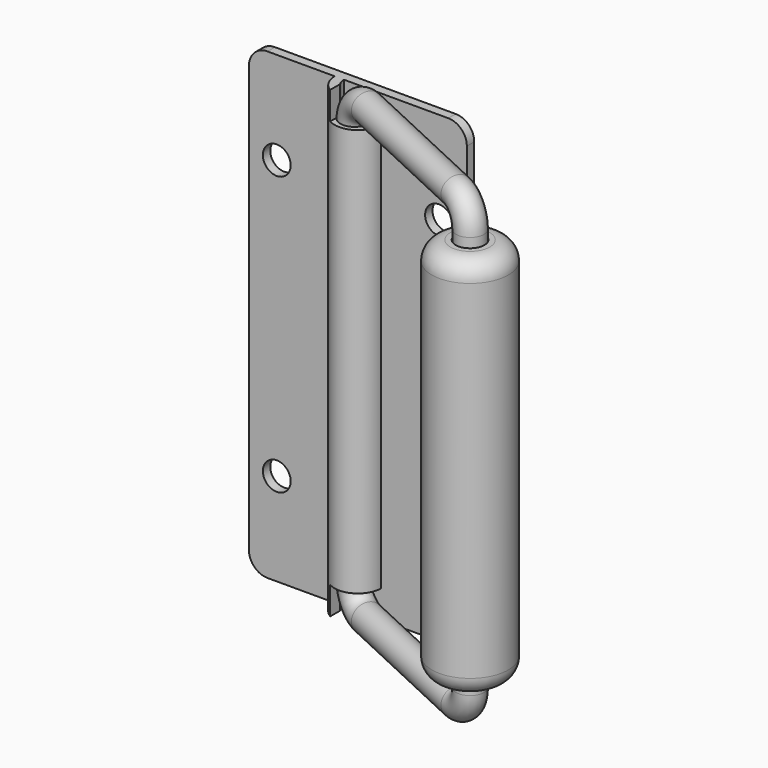
from build123d import *

# Parameters (mm, degrees)
PAD_DEPTH               = 50
SKETCH004_R             = 3
POCKET_DEPTH            = 2
SKETCH005_W             = 26
SKETCH005_H             = 6
POCKET001_DEPTH         = 5.001
FILLET001_R             = 4
BODY_PLACEMENT_ANGLE    = 180
SKETCH002_R             = 3
BODY001_PLACEMENT_ANGLE = 25
SKETCH003_R             = 8.25
SKETCH003_R_2           = 3.1
PAD001_DEPTH            = 41.5
FILLET_R                = 4
BODY002_PLACEMENT_ANGLE = 25


with BuildPart() as body:
    # Sketch → Pad (new body, symmetric)
    with BuildSketch(Plane.XY):
        with BuildLine():
            Line((-23.5, 0), (23.5, 0))
            Line((23.5, 0), (23.5, 2))
            Line((5, 2), (23.5, 2))
            ThreePointArc((5, 2), (0, 7), (-5, 2))
            Line((-5, 2), (-23.5, 2))
            Line((-23.5, 2), (-23.5, 0))
        make_face()
        with BuildLine():
            Line((-3, 2), (3, 2))
            ThreePointArc((3, 2), (0, 5), (-3, 2))
        make_face(mode=Mode.SUBTRACT)
    extrude(amount=PAD_DEPTH, both=True)

    # Sketch004 (on Face5 of Pad) → Pocket (cut)
    with BuildSketch(Plane(origin=(0, 2, 0), x_dir=(-1, 0, 0), z_dir=(0, 1, 0))):
        with Locations((17.5, 30)):
            Circle(SKETCH004_R)
        with Locations((-17.5, 30)):
            Circle(SKETCH004_R)
        with Locations((17.5, -30)):
            Circle(SKETCH004_R)
        with Locations((-17.5, -30)):
            Circle(SKETCH004_R)
    extrude(amount=-POCKET_DEPTH, mode=Mode.SUBTRACT)

    # Sketch005 (on Face10 of Pocket) → Pocket001 (cut, through all)
    with BuildSketch(Plane(origin=(0, 2, 0), x_dir=(-1, 0, 0), z_dir=(0, 1, 0))):
        with Locations((10.5, 47)):
            Rectangle(SKETCH005_W, SKETCH005_H)
        with Locations((10.5, -47)):
            Rectangle(SKETCH005_W, SKETCH005_H)
    extrude(amount=POCKET001_DEPTH, mode=Mode.SUBTRACT)

    # Fillet001
    fillet001_edges = [body.edges().sort_by_distance(p)[0] for p in [
        (-23.5, 1, -50),
        (23.5, 1, -50),
        (23.5, 1, 50),
        (-23.5, 1, 50),
    ]]
    fillet(fillet001_edges, radius=FILLET001_R)


with BuildPart() as body_1:
    # Body placement: moved
    add(body.part.rotate(Axis((0, 0, 0), (0, 0, 1)), BODY_PLACEMENT_ANGLE))


with BuildPart() as body001:
    # AdditivePipe: sweep along a path in Sketch001
    with BuildLine(Plane.XZ) as additivepipe_path:
        Line((39, -48.5), (5, -48.5))
        ThreePointArc((5, -48.5), (1.464466, -47.035534), (0, -43.5))
        Line((0, -43.5), (0, 43.5))
        ThreePointArc((0, 43.5), (1.464466, 47.035534), (5, 48.5))
        Line((5, 48.5), (39, 48.5))
        ThreePointArc((39, 48.5), (42.535534, 47.035534), (44, 43.5))
        Line((44, 43.5), (44, -43.5))
        ThreePointArc((44, -43.5), (42.535534, -47.035534), (39, -48.5))
    # Sketch002 → AdditivePipe (sweep)
    with BuildSketch(Plane.XY):
        Circle(SKETCH002_R)
    sweep(path=additivepipe_path.line)


with BuildPart() as body001_1:
    # Body001 placement: moved
    add(body001.part.moved(Location((0, -3, 0))).rotate(Axis((0, -3, 0), (0, 0, -1)), BODY001_PLACEMENT_ANGLE))


with BuildPart() as body002:
    # Sketch003 → Pad001 (new body, symmetric)
    with BuildSketch(Plane.XY):
        with Locations((44, 0)):
            Circle(SKETCH003_R)
        with Locations((44, 0)):
            Circle(SKETCH003_R_2, mode=Mode.SUBTRACT)
    extrude(amount=PAD001_DEPTH, both=True)

    # Fillet
    fillet_edges = [body002.edges().sort_by_distance(p)[0] for p in [
        (35.75, 0, 41.5),
        (35.75, 0, -41.5),
    ]]
    fillet(fillet_edges, radius=FILLET_R)


with BuildPart() as body002_1:
    # Body002 placement: moved
    add(body002.part.moved(Location((0, -3, 0))).rotate(Axis((0, -3, 0), (0, 0, -1)), BODY002_PLACEMENT_ANGLE))


solid = Compound([body_1.part, body001_1.part, body002_1.part])
